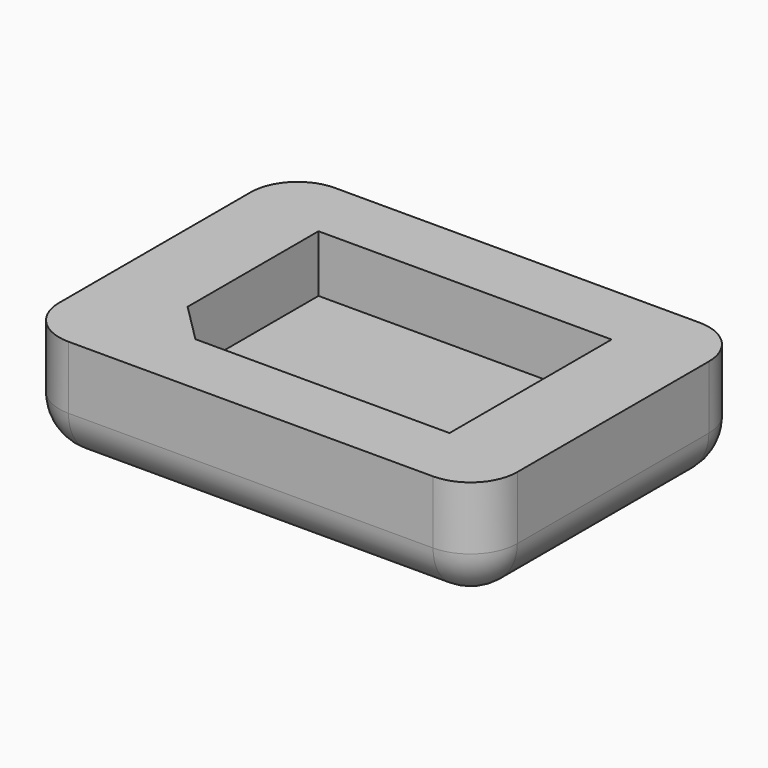
from build123d import *

# Parameters (mm, degrees)
F0_W     = 58.74
F0_H     = 42.7
F1_DEPTH = 14.08
F2_R     = 6
F3_W     = 37.578944
F3_H     = 25.973686
F4_DEPTH = 7.3
F5_SIZE  = 5


with BuildPart() as f1:
    # F0 (on Top) → F1 (new body)
    with BuildSketch(Plane.XY):
        Rectangle(F0_W, F0_H)
    extrude(amount=F1_DEPTH)

    # F2
    f2_edges = [f1.edges().sort_by_distance(p)[0] for p in [
        (0, -21.35, 0),
        (29.37, 0, 0),
        (0, 21.35, 0),
        (-29.37, 0, 0),
        (29.37, -21.35, 7.04),
        (29.37, 21.35, 7.04),
        (-29.37, 21.35, 7.04),
        (-29.37, -21.35, 7.04),
    ]]
    fillet(f2_edges, radius=F2_R)

    # F3 (on face) → F4 (cut)
    with BuildSketch(Plane.XY.offset(14.08)):
        Rectangle(F3_W, F3_H)
    extrude(amount=-F4_DEPTH, mode=Mode.SUBTRACT)

    # F5
    f5_edges = [f1.edges().sort_by_distance(p)[0] for p in [
        (-18.789472, -12.986843, 10.43),
    ]]
    chamfer(f5_edges, length=F5_SIZE)


solid = f1.part
